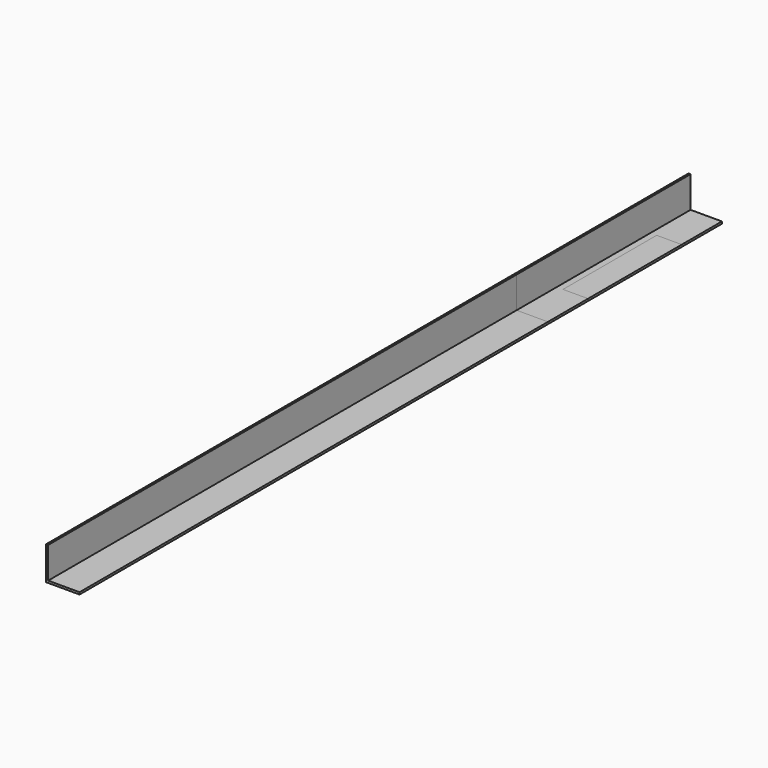
from build123d import *

# Parameters (mm, degrees)
F1_DEPTH = 203.2
F2_DEPTH = 609.6
F3_DEPTH = 25.4
F4_DEPTH = 165.1
F5_W     = 19.05
F5_H     = 88.9
F6_DEPTH = 25.4
F7_DEPTH = 203.2


with BuildPart() as f1:
    # F0 (on Front) → F1 (new body)
    with BuildSketch(Plane.XZ):
        Polygon((0, 25.4), (0, 0), (25.4, 0), (25.4, 1.5875), (1.5875, 1.5875), (1.5875, 25.4), align=None)
    extrude(amount=F1_DEPTH)


with BuildPart() as f2:
    # F0 (on Front) → F2 (new body)
    with BuildSketch(Plane.XZ):
        Polygon((0, 25.4), (0, 0), (25.4, 0), (25.4, 1.5875), (1.5875, 1.5875), (1.5875, 25.4), align=None)
    extrude(amount=F2_DEPTH)


with BuildPart() as f3:
    # F0 (on Front) → F3 (new body)
    with BuildSketch(Plane.XZ):
        Polygon((0, 25.4), (0, 0), (25.4, 0), (25.4, 1.5875), (1.5875, 1.5875), (1.5875, 25.4), align=None)
    extrude(amount=F3_DEPTH)


with BuildPart() as f4:
    # F0 (on Front) → F4 (new body)
    with BuildSketch(Plane.XZ):
        Polygon((0, 25.4), (0, 0), (25.4, 0), (25.4, 1.5875), (1.5875, 1.5875), (1.5875, 25.4), align=None)
    extrude(amount=F4_DEPTH)

    # F5 (on face) → F6 (cut)
    with BuildSketch(Plane.XY.offset(1.5875)):
        with Locations((15.875, -82.55)):
            Rectangle(F5_W, F5_H)
    extrude(amount=-F6_DEPTH, mode=Mode.SUBTRACT)


with BuildPart() as f7:
    # F0 (on Front) → F7 (new body)
    with BuildSketch(Plane.XZ):
        Polygon((0, 25.4), (0, 0), (25.4, 0), (25.4, 1.5875), (1.5875, 1.5875), (1.5875, 25.4), align=None)
    extrude(amount=F7_DEPTH)


solid = Compound([f1.part, f2.part, f3.part, f4.part])
